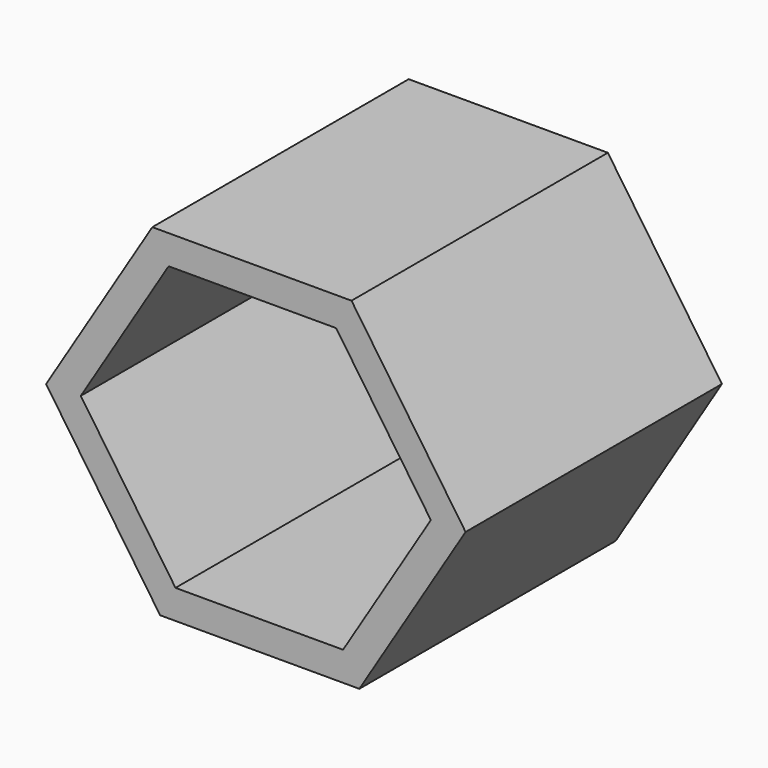
from build123d import *

# Parameters (mm, degrees)
F1_DEPTH = 10
F2_T     = 1


with BuildPart() as f1:
    # F0 (on Front) → F1 (new body)
    with BuildSketch(Plane.XZ):
        Polygon((-33.2895902376, 22.4671012992), (-36.3039637367, 17.568745036), (-33.0530058498, 12.8241044288), (-27.3014546092, 12.8241044288), (-24.2870811101, 17.7224606921), (-27.538038997, 22.4671012992), align=None)
    extrude(amount=F1_DEPTH)

    # F2
    f2_openings = [f1.faces().sort_by_distance(p)[0] for p in [
        (-30.295522, -10, 17.645603),
    ]]
    offset(amount=F2_T, openings=f2_openings, kind=Kind.INTERSECTION)


solid = f1.part
